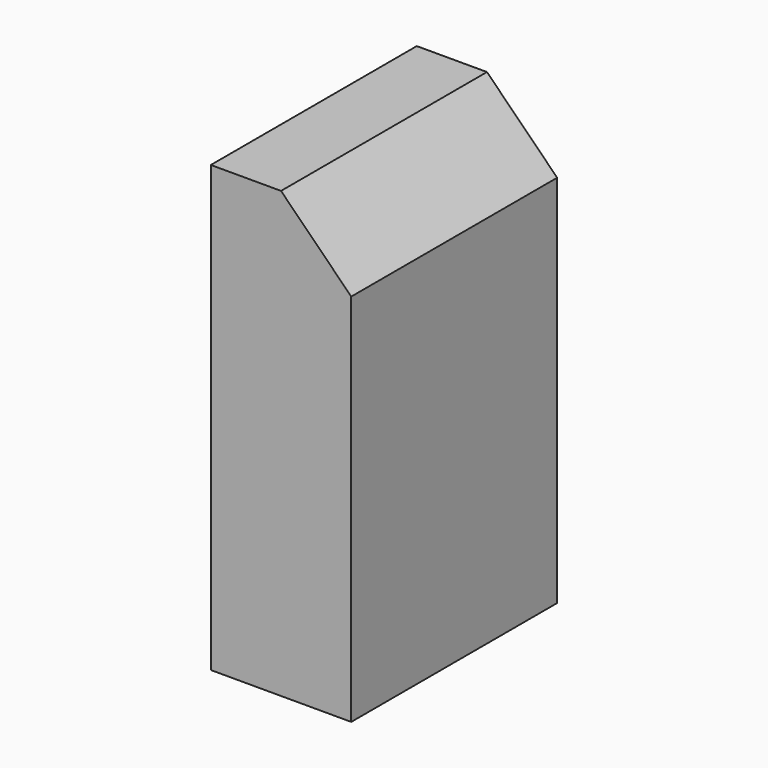
from build123d import *

# Parameters (mm, degrees)
F0_W     = 220
F0_H     = 380
F1_DEPTH = 120
F3_DEPTH = 220
F4_R     = 12.5
F5_DEPTH = 25


with BuildPart() as f1:
    # F0 (on Right) → F1 (new body)
    with BuildSketch(Plane.YZ):
        Rectangle(F0_W, F0_H)
    extrude(amount=-F1_DEPTH)

    # F2 (on face) → F3 (cut)
    with BuildSketch(Plane.XZ.offset(110)):
        Polygon((0, 190), (-60, 190), (0, 130), align=None)
    extrude(amount=-F3_DEPTH, mode=Mode.SUBTRACT)

    # F4 (on face) → F5 (cut)
    with BuildSketch(Plane(origin=(0, 0, -190), x_dir=(1, 0, 0), z_dir=(0, 0, -1))):
        with Locations((-60, 60)):
            Circle(F4_R)
        with Locations((-60, -60)):
            Circle(F4_R)
    extrude(amount=-F5_DEPTH, mode=Mode.SUBTRACT)


solid = f1.part
